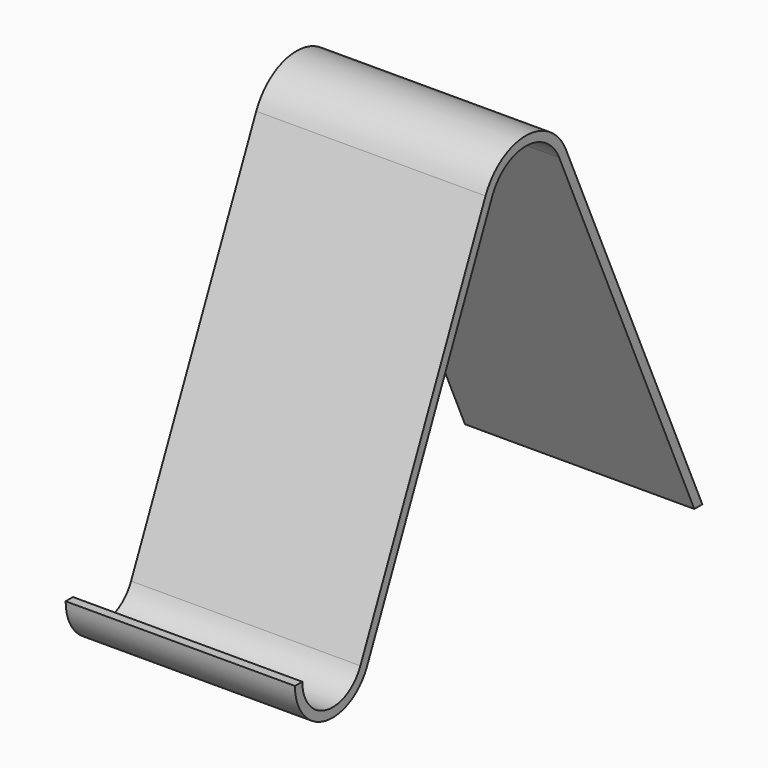
from build123d import *

# Parameters (mm, degrees)
F1_DEPTH = 25


with BuildPart() as f1:
    # F0 (on Right) → F1 (new body)
    with BuildSketch(Plane.YZ):
        with BuildLine():
            ThreePointArc((-31.450262, 5.139706), (-27.3825, 0.113026), (-21.617982, 3.042966))
            Line((-21.617982, 3.042966), (-4.565023, 41.208058))
            ThreePointArc((-4.565023, 41.208058), (0, 44.168311), (4.565023, 41.208058))
            Line((4.565023, 41.208058), (22.977643, 0))
            Line((22.977643, 0), (24.072928, 0))
            Line((24.072928, 0), (5.478027, 41.616008))
            ThreePointArc((5.478027, 41.616008), (0, 45.168311), (-5.478027, 41.616008))
            Line((-5.478027, 41.616008), (-22.530987, 3.450915))
            ThreePointArc((-22.530987, 3.450915), (-27.173938, 1.091035), (-30.450262, 5.139706))
            Line((-30.450262, 5.139706), (-31.450262, 5.139706))
        make_face()
    extrude(amount=F1_DEPTH)


solid = f1.part
